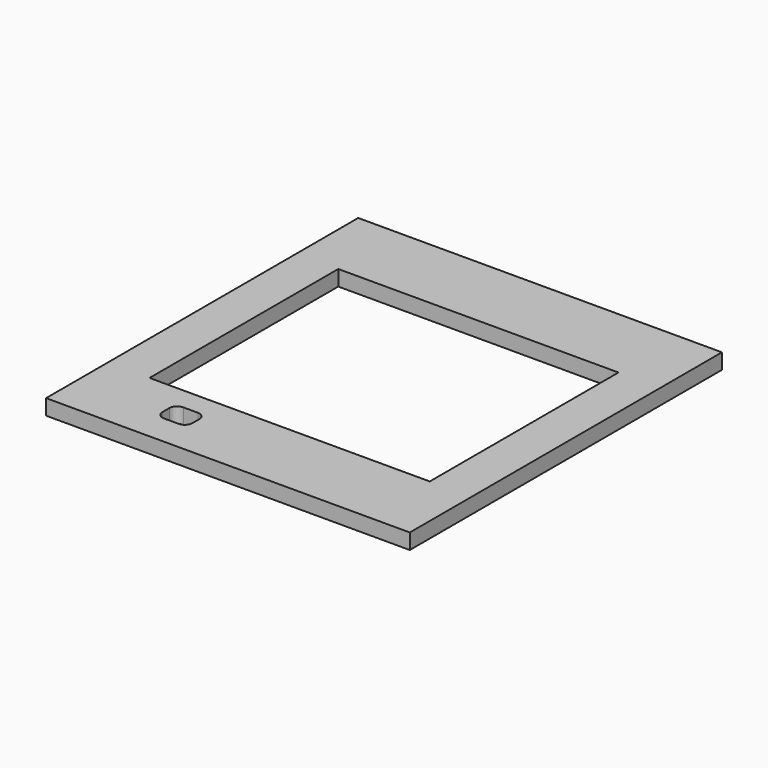
from build123d import *

# Parameters (mm, degrees)
F0_W     = 94.059766
F0_H     = 100.90065
F1_DEPTH = 4
F6_W     = 72.467298
F6_H     = 61.010792
F2_DEPTH = 25
F3_W     = 7.757127
F3_H     = 6.220043
F4_DEPTH = 25
F5_R     = 2


with BuildPart() as f1:
    # F0 (on Top) → F1 (new body)
    with BuildSketch(Plane.XY):
        Rectangle(F0_W, F0_H)
    extrude(amount=F1_DEPTH)

    # F6 (on face) → F2 (cut)
    with BuildSketch(Plane.XY.offset(4)):
        Rectangle(F6_W, F6_H)
    extrude(amount=-F2_DEPTH, mode=Mode.SUBTRACT)

    # F3 (on face) → F4 (cut)
    with BuildSketch(Plane.XY.offset(4)):
        with Locations((-20.997285, -39.404213)):
            Rectangle(F3_W, F3_H)
    extrude(amount=-F4_DEPTH, mode=Mode.SUBTRACT)

    # F5
    f5_edges = [f1.edges().sort_by_distance(p)[0] for p in [
        (-24.875849, -36.294192, 2),
        (-24.875849, -42.514235, 2),
        (-17.118722, -42.514235, 2),
        (-17.118722, -36.294192, 2),
    ]]
    fillet(f5_edges, radius=F5_R)


solid = f1.part
